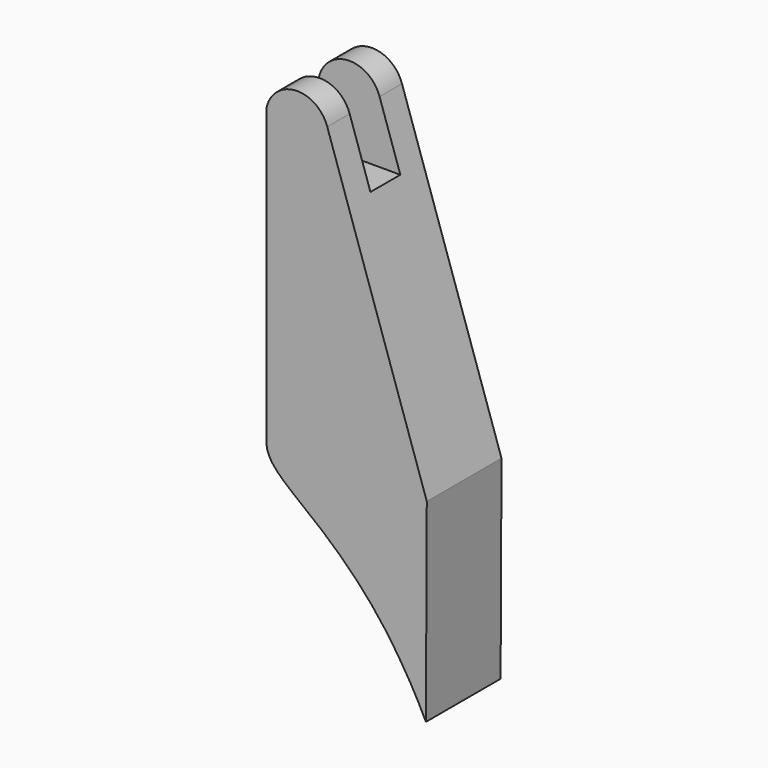
from build123d import *

# Parameters (mm, degrees)
BOX_W     = 100
BOX_H     = 40
BOX_DEPTH = 100


with BuildPart() as cube:
    # Box → Box (new body)
    with BuildSketch(Plane(origin=(4896, -20, -56), x_dir=(1, 0, 0), z_dir=(0, 0, 1))):
        with Locations((50, 20)):
            Rectangle(BOX_W, BOX_H)
    extrude(amount=BOX_DEPTH)


with BuildPart() as cut:
    # Sweep: sweep along a path in Sketch001
    with BuildLine(Plane.YZ) as sweep_path:
        Line((50, -102.428871), (-50, -102.428871))
    # Sketch → Sweep (sweep)
    with BuildSketch(Plane.XZ):
        with BuildLine():
            Line((5079.153809, -307.963104), (4972.606463, 10.450841))
            ThreePointArc((4972.606463, 10.450841), (4938.873384, 33.689038), (4907.556965, 7.284185))
            Line((4907.556965, 7.284185), (4907.556965, -308.010559))
            add(Edge.make_bspline(
                [(4907.556965, -308.010559), (4907.383301, -349.562683), (5004.027832, -362.999908), (5078.214844, -516.165161)],
                knots=[0, 0, 0, 0, 1, 1, 1, 1], degree=3))
            Line((5078.214844, -516.165161), (5079.153809, -307.963104))
        make_face()
    sweep(path=sweep_path.line)

    # Cut: cut Cube
    add(cube.part, mode=Mode.SUBTRACT)


solid = cut.part
